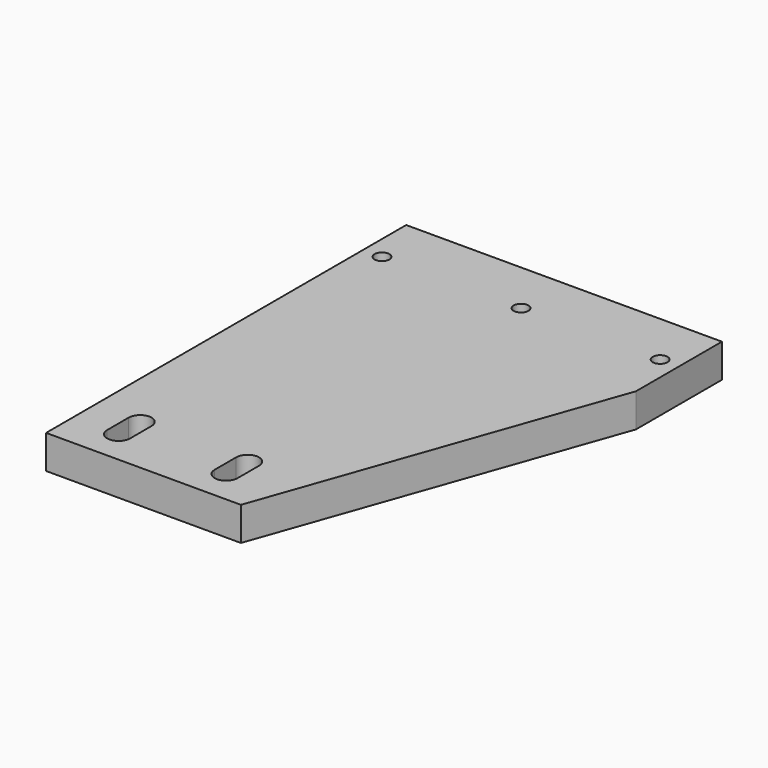
from build123d import *

# Parameters (mm, degrees)
F0_R     = 5.5
F1_DEPTH = 25
F2_DEPTH = 25


with BuildPart() as f1:
    # F0 (on Top) → F1 (new body)
    with BuildSketch(Plane.XY):
        Polygon((0, 80), (-235, 80), (-235, -255), (-90, -255), (0, 0), align=None)
        with BuildLine():
            ThreePointArc((-209.5, -210), (-201, -201.5), (-192.5, -210))
            Line((-192.5, -210), (-192.5, -230))
            ThreePointArc((-192.5, -230), (-201, -238.5), (-209.5, -230))
            Line((-209.5, -230), (-209.5, -210))
        make_face(mode=Mode.SUBTRACT)
        with BuildLine():
            ThreePointArc((-129.5, -210), (-121, -201.5), (-112.5, -210))
            Line((-112.5, -210), (-112.5, -230))
            ThreePointArc((-112.5, -230), (-121, -238.5), (-129.5, -230))
            Line((-129.5, -230), (-129.5, -210))
        make_face(mode=Mode.SUBTRACT)
        with Locations((-221, 40)):
            Circle(F0_R, mode=Mode.SUBTRACT)
        with Locations((-117.5, 40)):
            Circle(F0_R, mode=Mode.SUBTRACT)
        with Locations((-14, 40)):
            Circle(F0_R, mode=Mode.SUBTRACT)
    extrude(amount=F1_DEPTH)

    # F0 (on Top) → F2 (join)
    with BuildSketch(Plane.XY):
        Polygon((0, 80), (-235, 80), (-235, -255), (-90, -255), (0, 0), align=None)
        with BuildLine():
            ThreePointArc((-209.5, -210), (-201, -201.5), (-192.5, -210))
            Line((-192.5, -210), (-192.5, -230))
            ThreePointArc((-192.5, -230), (-201, -238.5), (-209.5, -230))
            Line((-209.5, -230), (-209.5, -210))
        make_face(mode=Mode.SUBTRACT)
        with BuildLine():
            ThreePointArc((-129.5, -210), (-121, -201.5), (-112.5, -210))
            Line((-112.5, -210), (-112.5, -230))
            ThreePointArc((-112.5, -230), (-121, -238.5), (-129.5, -230))
            Line((-129.5, -230), (-129.5, -210))
        make_face(mode=Mode.SUBTRACT)
        with Locations((-221, 40)):
            Circle(F0_R, mode=Mode.SUBTRACT)
        with Locations((-117.5, 40)):
            Circle(F0_R, mode=Mode.SUBTRACT)
        with Locations((-14, 40)):
            Circle(F0_R, mode=Mode.SUBTRACT)
    extrude(amount=F2_DEPTH)


solid = f1.part
